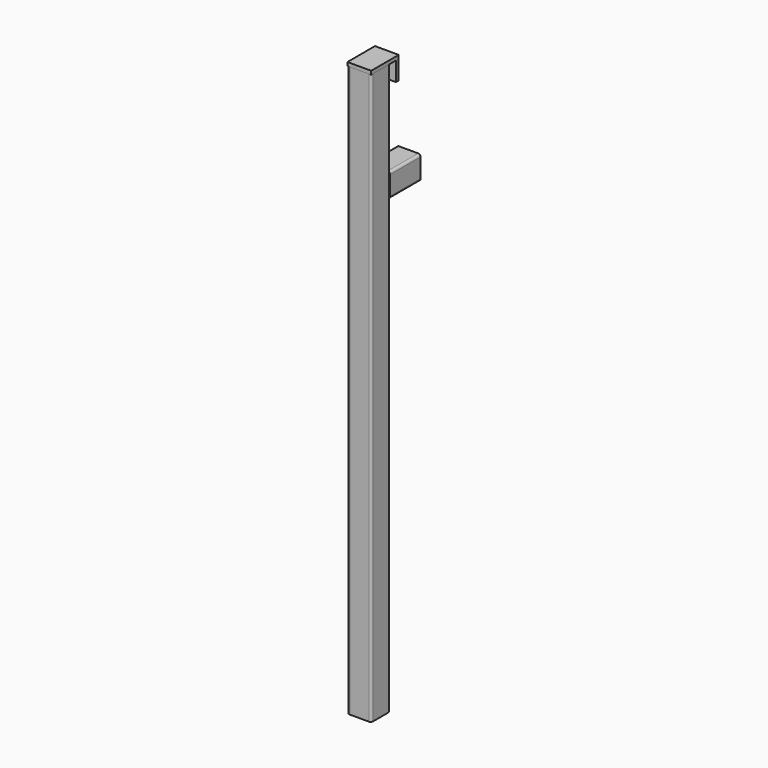
from build123d import *

# Parameters (mm, degrees)
F0_W     = 31.75
F0_H     = 31.75
F1_DEPTH = 762
F2_R     = 3.175
F3_T     = -3.048
F5_DEPTH = 15.875
F6_W     = 31.75
F6_H     = 31.75
F7_DEPTH = 50.8
F8_R     = 3.175
F9_T     = -3.048


with BuildPart() as f1:
    # F0 (on Top) → F1 (new body)
    with BuildSketch(Plane.XY):
        Rectangle(F0_W, F0_H)
    extrude(amount=-F1_DEPTH)

    # F2
    f2_edges = [f1.edges().sort_by_distance(p)[0] for p in [
        (-15.875, 15.875, -381),
        (-15.875, -15.875, -381),
        (15.875, 15.875, -381),
        (15.875, -15.875, -381),
    ]]
    fillet(f2_edges, radius=F2_R)

    # F3
    f3_openings = [f1.faces().sort_by_distance(p)[0] for p in [
        (0, 0, 0),
        (0, 0, -762),
    ]]
    offset(amount=F3_T, openings=f3_openings)


with BuildPart() as f5:
    # F4 (on Right) → F5 (new body, symmetric)
    with BuildSketch(Plane.YZ):
        Polygon((30.1625, 4.7625), (-15.875, 4.7625), (-15.875, 0), (25.4, 0), (25.4, -25.4), (30.1625, -25.4), align=None)
    extrude(amount=F5_DEPTH, both=True)


with BuildPart() as f7:
    # F6 (on face) → F7 (new body)
    with BuildSketch(Plane(origin=(0, 15.875, 0), x_dir=(-1, 0, 0), z_dir=(0, 1, 0))):
        with Locations((0, -142.875)):
            Rectangle(F6_W, F6_H)
    extrude(amount=F7_DEPTH)

    # F8
    f8_edges = [f7.edges().sort_by_distance(p)[0] for p in [
        (-15.875, 41.275, -127),
        (-15.875, 41.275, -158.75),
        (15.875, 41.275, -127),
        (15.875, 41.275, -158.75),
    ]]
    fillet(f8_edges, radius=F8_R)

    # F9
    f9_openings = [f7.faces().sort_by_distance(p)[0] for p in [
        (0, 66.675, -142.875),
        (0, 15.875, -142.875),
    ]]
    offset(amount=F9_T, openings=f9_openings)


solid = Compound([f1.part, f5.part, f7.part])
